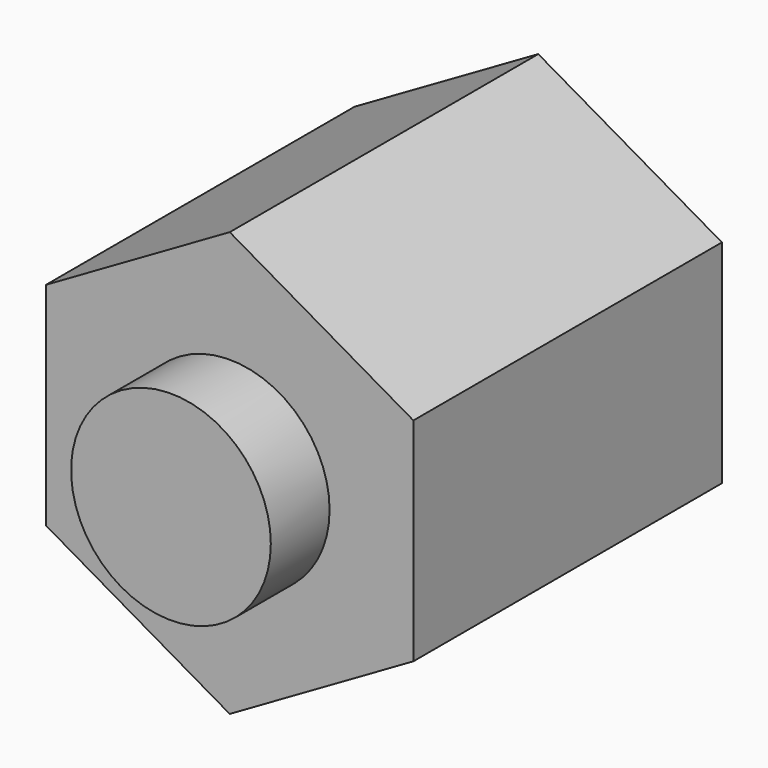
from build123d import *

# Parameters (mm, degrees)
F0_R     = 21.75
F1_DEPTH = 16
F3_DEPTH = 84


with BuildPart() as f1:
    # F0 (on Front) → F1 (new body)
    with BuildSketch(Plane.XZ):
        Circle(F0_R)
    extrude(amount=-F1_DEPTH)

    # F2 (on face) → F3 (join)
    with BuildSketch(Plane(origin=(0, 16, 0), x_dir=(-1, 0, 0), z_dir=(0, 1, 0))):
        Polygon((40, -23.094011), (40, 23.094011), (0, 46.188022), (-40, 23.094011), (-40, -23.094011), (0, -46.188022), align=None)
    extrude(amount=F3_DEPTH)


solid = f1.part
